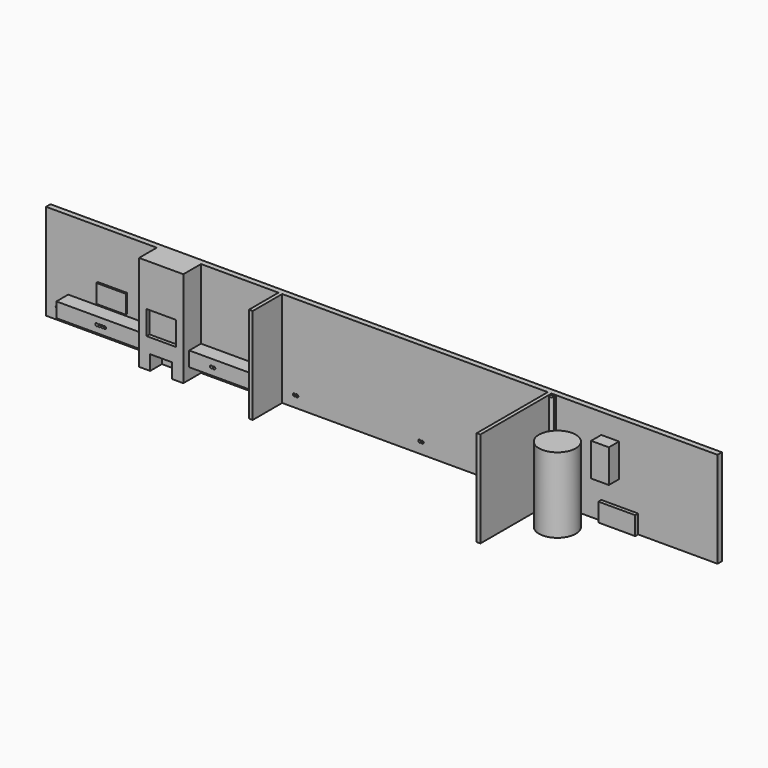
from build123d import *

# Parameters (mm, degrees)
F1_DEPTH      = 2600
F0_R          = 50
F0_R_2        = 11
F2_W          = 790
F2_H          = 647
F3_DEPTH      = 100
F4_W          = 2400
F4_H          = 400
F4_W_2        = 1800
F5_DEPTH      = 400
F6_W          = 800
F6_H          = 500
F7_DEPTH      = 50
F9_DEPTH      = 50
F9_DEPTH_BACK = 600
F0_R_3        = 500
F10_DEPTH     = 2040
F11_W         = 1000
F11_H         = 500
F12_DEPTH     = 100
F13_W         = 600
F13_H         = 400
F14_DEPTH     = 400
F15_W         = 480
F15_H         = 900
F16_DEPTH     = 344


with BuildPart() as f1:
    # F0 (on Top) → F1 (new body)
    with BuildSketch(Plane.XY):
        Polygon((0, 150), (0, 0), (3000, 0), (3000, -600), (4200, -600), (4200, 0), (6300, 0), (6300, -1000), (6400, -1000), (6400, 0), (13600, 0), (13600, -2408.4522724152), (13700, -2408.4522724152), (13700, 0), (18200, 0), (18200, 150), align=None)
    extrude(amount=F1_DEPTH)

    # F2 (on face) → F3 (cut)
    with BuildSketch(Plane.XZ.offset(600)):
        with Locations((3600, 1123.5)):
            Rectangle(F2_W, F2_H)
    extrude(amount=-F3_DEPTH, mode=Mode.SUBTRACT)

    # F4 (on face) → F5 (join)
    with BuildSketch(Plane.XZ):
        with Locations((1800, 500)):
            Rectangle(F4_W, F4_H)
        with Locations((5100, 500)):
            Rectangle(F4_W_2, F4_H)
    extrude(amount=F5_DEPTH)

    # F6 (on face) → F7 (join)
    with BuildSketch(Plane.XZ):
        with Locations((1800, 1010)):
            Rectangle(F6_W, F6_H)
    extrude(amount=F7_DEPTH)

    # F8 (on face) → F9 (cut, two sides)
    with BuildSketch(Plane.XZ) as f9_sk:
        with BuildLine():
            ThreePointArc((13264.5, 313.5554417117), (13191, 300), (13264.5, 286.4445582883))
            ThreePointArc((13264.5, 286.4445582883), (13338, 300), (13264.5, 313.5554417117))
        make_face()
        with BuildLine():
            ThreePointArc((10164.5, 313.5554417117), (10091, 300), (10164.5, 286.4445582883))
            ThreePointArc((10164.5, 286.4445582883), (10238, 300), (10164.5, 313.5554417117))
        make_face()
        with BuildLine():
            ThreePointArc((6764.5, 313.5554417117), (6691, 300), (6764.5, 286.4445582883))
            ThreePointArc((6764.5, 286.4445582883), (6838, 300), (6764.5, 313.5554417117))
        make_face()
        with BuildLine():
            ThreePointArc((4835.5, 513.5554417117), (4762, 500), (4835.5, 486.4445582883))
            ThreePointArc((4835.5, 486.4445582883), (4909, 500), (4835.5, 513.5554417117))
        make_face()
        with BuildLine():
            ThreePointArc((335.5, 313.5554417117), (262, 300), (335.5, 286.4445582883))
            ThreePointArc((335.5, 286.4445582883), (409, 300), (335.5, 313.5554417117))
        make_face()
        with BuildLine():
            ThreePointArc((1800, 486.4445582883), (1835.5, 462), (1871, 486.4445582883))
            ThreePointArc((1871, 486.4445582883), (1944.5, 500), (1871, 513.5554417117))
            ThreePointArc((1871, 513.5554417117), (1835.5, 538), (1800, 513.5554417117))
            ThreePointArc((1800, 513.5554417117), (1764.5, 538), (1729, 513.5554417117))
            ThreePointArc((1729, 513.5554417117), (1655.5, 500), (1729, 486.4445582883))
            ThreePointArc((1729, 486.4445582883), (1764.5, 462), (1800, 486.4445582883))
        make_face()
    extrude(amount=-F9_DEPTH, mode=Mode.SUBTRACT)
    extrude(f9_sk.sketch, amount=F9_DEPTH_BACK, mode=Mode.SUBTRACT)

    # F11 (on face) → F12 (join)
    with BuildSketch(Plane.XZ):
        with Locations((15550, 250)):
            Rectangle(F11_W, F11_H)
    extrude(amount=F12_DEPTH)

    # F13 (on face) → F14 (cut)
    with BuildSketch(Plane.XZ.offset(600)):
        with Locations((3600, 200)):
            Rectangle(F13_W, F13_H)
    extrude(amount=-F14_DEPTH, mode=Mode.SUBTRACT)

    # F15 (on face) → F16 (join)
    with BuildSketch(Plane.XZ):
        with Locations((15290, 1600)):
            Rectangle(F15_W, F15_H)
    extrude(amount=F16_DEPTH)


with BuildPart() as f1b:
    # F0 (on Top) → F1, piece 2 (new body)
    with BuildSketch(Plane.XY):
        with Locations((13780, -100)):
            Circle(F0_R)
    extrude(amount=F1_DEPTH)


with BuildPart() as f1c:
    # F0 (on Top) → F1, piece 3 (new body)
    with BuildSketch(Plane.XY):
        with Locations((13850, -50)):
            Circle(F0_R_2)
    extrude(amount=F1_DEPTH)


with BuildPart() as f10:
    # F0 (on Top) → F10 (new body)
    with BuildSketch(Plane.XY):
        with Locations((14500, -800)):
            Circle(F0_R_3)
    extrude(amount=F10_DEPTH)


solid = Compound([f1.part, f1b.part, f1c.part, f10.part])
